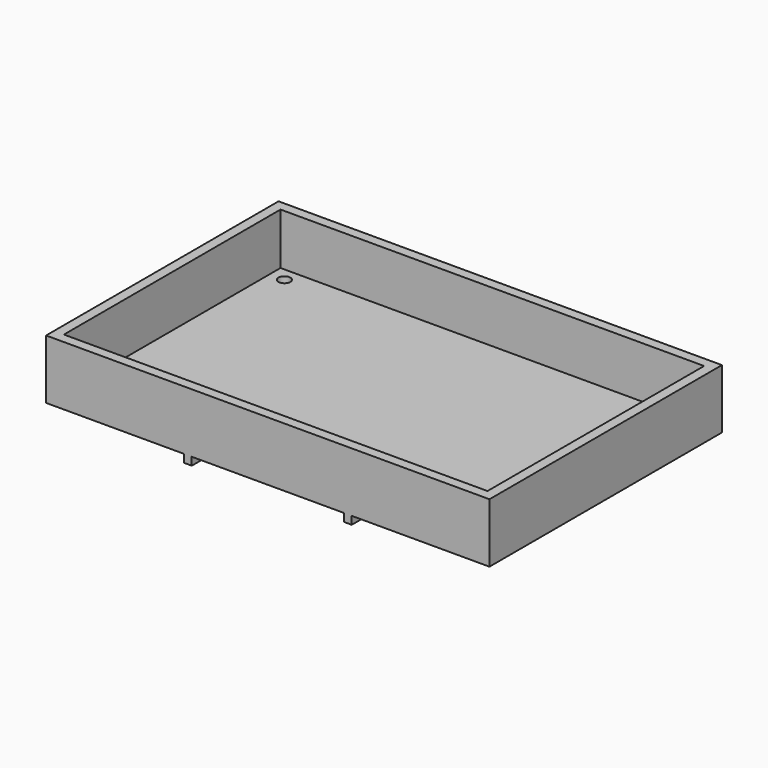
from build123d import *

# Parameters (mm, degrees)
SKETCH_W        = 112
SKETCH_H        = 73.4
SKETCH_W_2      = 107
SKETCH_H_2      = 68.4
PAD_DEPTH       = 15
SKETCH001_W     = 6.5
SKETCH001_H     = 6.5
SKETCH001_W_2   = 7.5
PAD001_DEPTH    = 2
SKETCH002_R     = 1.5
POCKET_DEPTH    = 2
SKETCH003_W     = 2
SKETCH003_H     = 73.4
PAD002_DEPTH    = 2
PAD003_DEPTH    = 2
SKETCH005_W     = 15
SKETCH005_H     = 35
POCKET001_DEPTH = 5
SKETCH006_W     = 38.41
SKETCH006_H     = 2
PAD004_DEPTH    = 2


with BuildPart() as part:
    # Sketch → Pad (new body)
    with BuildSketch(Plane.XY):
        Rectangle(SKETCH_W, SKETCH_H)
        Rectangle(SKETCH_W_2, SKETCH_H_2, mode=Mode.SUBTRACT)
    extrude(amount=PAD_DEPTH)

    # Sketch001 (on Face9 of Pad) → Pad001 (join)
    with BuildSketch(Plane(origin=(0, 0, 0), x_dir=(1, 0, 0), z_dir=(0, 0, -1))):
        with Locations((-50.25, 30.95)):
            Rectangle(SKETCH001_W, SKETCH001_H)
        with Locations((-49.75, -30.95)):
            Rectangle(SKETCH001_W_2, SKETCH001_H)
        with Locations((50.25, 30.95)):
            Rectangle(SKETCH001_W, SKETCH001_H)
        with Locations((50.25, -30.95)):
            Rectangle(SKETCH001_W, SKETCH001_H)
    extrude(amount=-PAD001_DEPTH)

    # Sketch002 (on Face22 of Pad001) → Pocket (cut)
    with BuildSketch(Plane(origin=(0, 0, 0), x_dir=(1, 0, 0), z_dir=(0, 0, -1))):
        with Locations((-50.25, 30.75)):
            Circle(SKETCH002_R)
        with Locations((50.25, -30.75)):
            Circle(SKETCH002_R)
        with Locations((-49.75, -30.75)):
            Circle(SKETCH002_R)
        with Locations((50.25, 30.75)):
            Circle(SKETCH002_R)
    extrude(amount=-POCKET_DEPTH, mode=Mode.SUBTRACT)

    # Sketch003 (on Face9 of Pad) → Pad002 (join)
    with BuildSketch(Plane(origin=(0, 0, 0), x_dir=(1, 0, 0), z_dir=(0, 0, -1))):
        with Locations((-20.205, 0)):
            Rectangle(SKETCH003_W, SKETCH003_H)
        with Locations((20.205, 0)):
            Rectangle(SKETCH003_W, SKETCH003_H)
    extrude(amount=PAD002_DEPTH)

    # Sketch004 (on Face4 of Pocket) → Pad003 (join)
    with BuildSketch(Plane(origin=(0, 0, 0), x_dir=(1, 0, 0), z_dir=(0, 0, -1))):
        Polygon((47, -34.2), (-46, -34.2), (-46, -27.7), (-53.5, -27.7), (-53.5, 27.7), (-47, 27.7), (-47, 34.2), (47, 34.2), (47, 27.7), (53.5, 27.7), (53.5, -27.7), (47, -27.7), align=None)
    extrude(amount=-PAD003_DEPTH)

    # Sketch005 (on Face23 of Pad003) → Pocket001 (cut)
    with BuildSketch(Plane.XY.offset(2)):
        with Locations((46, 0)):
            Rectangle(SKETCH005_W, SKETCH005_H)
    extrude(amount=-POCKET001_DEPTH, mode=Mode.SUBTRACT)

    # Sketch006 (on Face11 of Pocket001) → Pad004 (join)
    with BuildSketch(Plane(origin=(0, 0, 0), x_dir=(1, 0, 0), z_dir=(0, 0, -1))):
        with Locations((0, -35.7)):
            Rectangle(SKETCH006_W, SKETCH006_H)
    extrude(amount=PAD004_DEPTH)


solid = part.part
